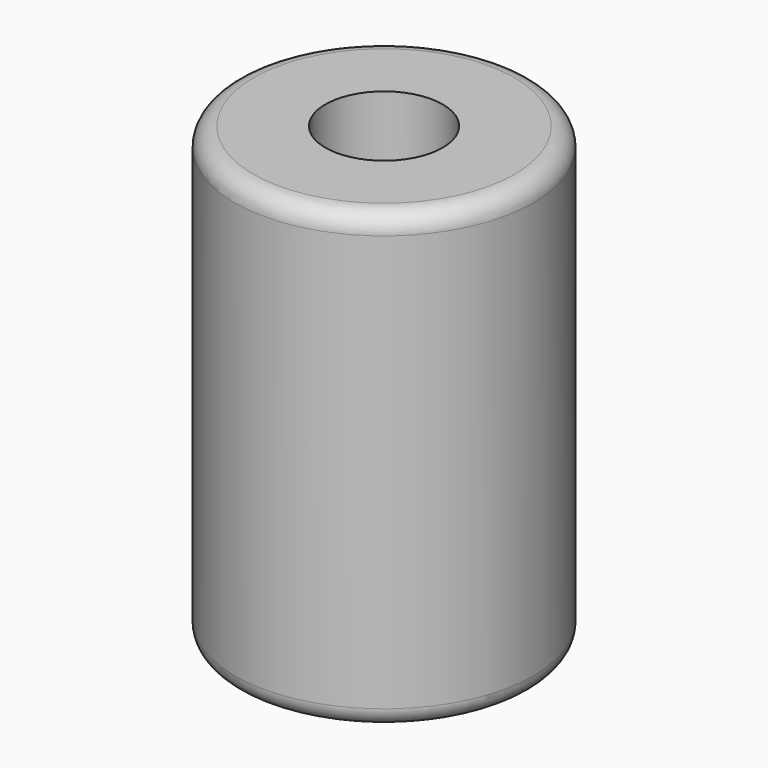
from build123d import *

# Parameters (mm, degrees)
F0_R     = 3.95
F1_DEPTH = 12
F2_R     = 1.55
F3_DEPTH = 12.001
F4_R     = 0.5


with BuildPart() as f1:
    # F0 (on Top) → F1 (new body)
    with BuildSketch(Plane.XY):
        Circle(F0_R)
    extrude(amount=F1_DEPTH)

    # F2 (on face) → F3 (cut, through all)
    with BuildSketch(Plane(origin=(0, 0, 0), x_dir=(1, 0, 0), z_dir=(0, 0, -1))):
        Circle(F2_R)
    extrude(amount=-F3_DEPTH, mode=Mode.SUBTRACT)

    # F4
    f4_edges = [f1.edges().sort_by_distance(p)[0] for p in [
        (-3.95, 0, 0),
        (-3.95, 0, 12),
    ]]
    fillet(f4_edges, radius=F4_R)


solid = f1.part
